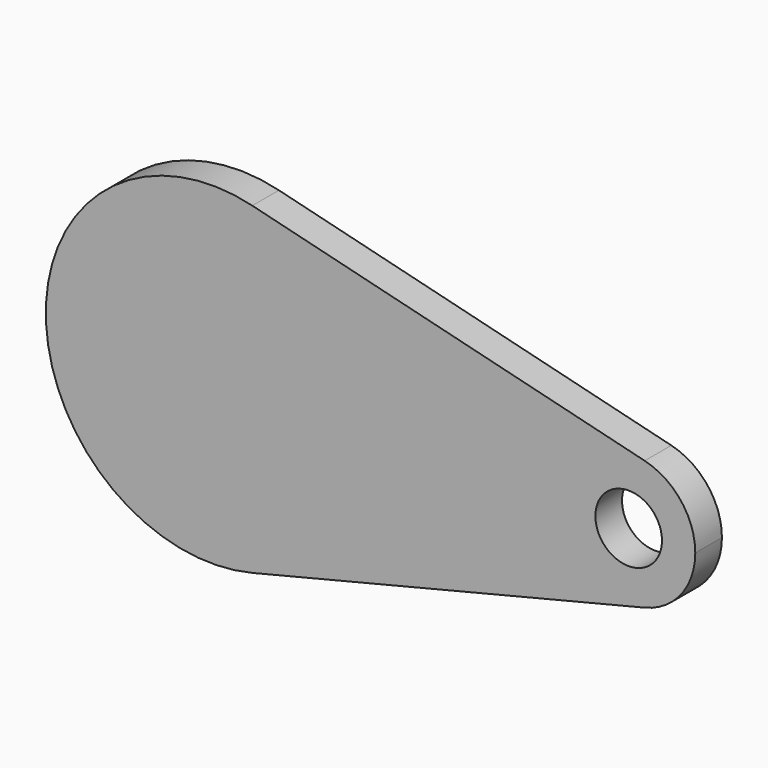
from build123d import *

# Parameters (mm, degrees)
F1_DEPTH = 3
F2_R     = 3
F3_DEPTH = 25


with BuildPart() as f1:
    # F0 (on Front) → F1 (new body)
    with BuildSketch(Plane.XZ):
        with BuildLine():
            ThreePointArc((-22.465729, -14.561593), (-14.254717, -9.246621), (-11.065729, 0))
            ThreePointArc((-11.065729, 0), (-14.254717, 9.246621), (-22.465729, 14.561593))
            ThreePointArc((-22.465729, 14.561593), (-41.065729, 0), (-22.465729, -14.561593))
        make_face()
        with BuildLine():
            ThreePointArc((-22.465729, 14.561593), (-14.254717, 9.246621), (-11.065729, 0))
            ThreePointArc((-11.065729, 0), (-14.254717, -9.246621), (-22.465729, -14.561593))
            Line((-22.465729, -14.561593), (12.874271, -5.824637))
            ThreePointArc((12.874271, -5.824637), (5.434271, 0), (12.874271, 5.824637))
            Line((12.874271, 5.824637), (-22.465729, 14.561593))
        make_face()
        with BuildLine():
            ThreePointArc((17.434271, 0), (16.158676, 3.698648), (12.874271, 5.824637))
            ThreePointArc((12.874271, 5.824637), (5.434271, 0), (12.874271, -5.824637))
            ThreePointArc((12.874271, -5.824637), (16.158676, -3.698648), (17.434271, 0))
        make_face()
    extrude(amount=F1_DEPTH)

    # F2 (on face) → F3 (cut)
    with BuildSketch(Plane.XZ.offset(3)):
        with Locations((11.434271, 0)):
            Circle(F2_R)
    extrude(amount=-F3_DEPTH, mode=Mode.SUBTRACT)


solid = f1.part
